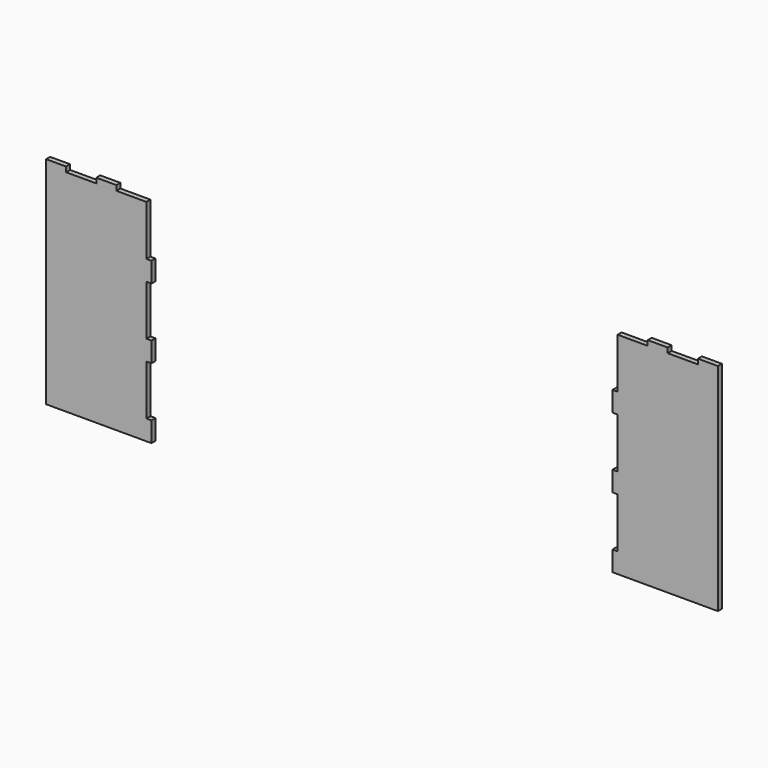
from build123d import *

# Parameters (mm, degrees)
F1_DEPTH = 12.7


with BuildPart() as f1:
    # F0 (on Front) → F1 (new body)
    with BuildSketch(Plane.XZ):
        Polygon((-930.703029, 267.083907), (-930.703029, -266.316093), (-676.703029, -266.316093), (-664.003029, -266.316093), (-664.003029, -215.516093), (-676.703029, -215.516093), (-676.703029, -88.516093), (-664.003029, -88.516093), (-664.003029, -37.716093), (-676.703029, -37.716093), (-676.703029, 89.283907), (-664.003029, 89.283907), (-664.003029, 140.083907), (-676.703029, 140.083907), (-676.703029, 267.083907), (-752.903029, 267.083907), (-752.903029, 279.783907), (-803.703029, 279.783907), (-803.703029, 267.083907), (-879.903029, 267.083907), (-879.903029, 279.783907), (-930.703029, 279.783907), align=None)
        Polygon((502.869237, -174.3875), (515.569237, -174.3875), (769.569237, -174.3875), (769.569237, 359.0125), (769.569237, 371.7125), (718.769237, 371.7125), (718.769237, 359.0125), (642.569237, 359.0125), (642.569237, 371.7125), (591.769237, 371.7125), (591.769237, 359.0125), (515.569237, 359.0125), (515.569237, 232.0125), (502.869237, 232.0125), (502.869237, 181.2125), (515.569237, 181.2125), (515.569237, 54.2125), (502.869237, 54.2125), (502.869237, 3.4125), (515.569237, 3.4125), (515.569237, -123.5875), (502.869237, -123.5875), align=None)
    extrude(amount=F1_DEPTH)


solid = f1.part
